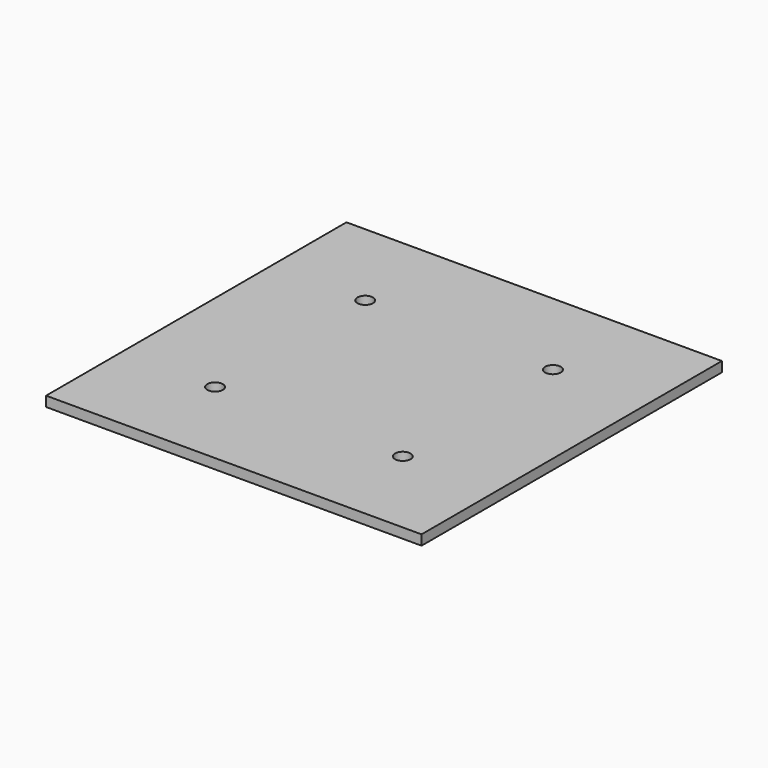
from build123d import *

# Parameters (mm, degrees)
SKETCH_W  = 60
SKETCH_H  = 60
SKETCH_R  = 1.25
PAD_DEPTH = 1.6


with BuildPart() as part:
    # Sketch → Pad (new body)
    with BuildSketch(Plane.XY):
        Rectangle(SKETCH_W, SKETCH_H)
        with Locations((-15, -15)):
            Circle(SKETCH_R, mode=Mode.SUBTRACT)
        with Locations((-15, 15)):
            Circle(SKETCH_R, mode=Mode.SUBTRACT)
        with Locations((15, 15)):
            Circle(SKETCH_R, mode=Mode.SUBTRACT)
        with Locations((15, -15)):
            Circle(SKETCH_R, mode=Mode.SUBTRACT)
    extrude(amount=PAD_DEPTH)


solid = part.part
